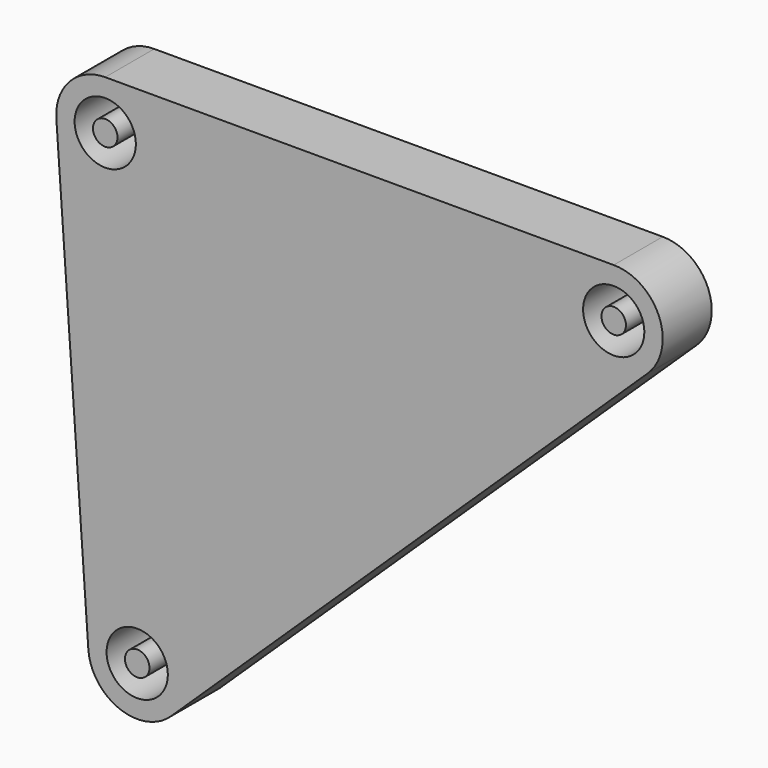
from build123d import *

# Parameters (mm, degrees)
F0_R     = 2.5
F0_R_2   = 1
F1_DEPTH = 5


with BuildPart() as f1:
    # F0 (on Front) → F1 (new body)
    with BuildSketch(Plane.XZ):
        with BuildLine():
            Line((25.79, 6.74), (-15.71, 6.74))
            ThreePointArc((-15.71, 6.74), (-18.635554, 5.467844), (-19.700228, 2.460566))
            Line((-19.700228, 2.460566), (-17.090228, -34.809434))
            ThreePointArc((-17.090228, -34.809434), (-14.540401, -38.261655), (-10.332362, -37.417937))
            Line((-10.332362, -37.417937), (28.557638, -0.147937))
            ThreePointArc((28.557638, -0.147937), (29.501587, 4.23135), (25.79, 6.74))
        make_face()
        with Locations((-13.1, -34.53)):
            Circle(F0_R, mode=Mode.SUBTRACT)
        with Locations((-15.71, 2.74)):
            Circle(F0_R, mode=Mode.SUBTRACT)
        with Locations((25.79, 2.74)):
            Circle(F0_R, mode=Mode.SUBTRACT)
        with Locations((-15.71, 2.74)):
            Circle(F0_R_2)
        with Locations((25.79, 2.74)):
            Circle(F0_R_2)
        with Locations((-13.1, -34.53)):
            Circle(F0_R_2)
    extrude(amount=F1_DEPTH)


solid = f1.part
